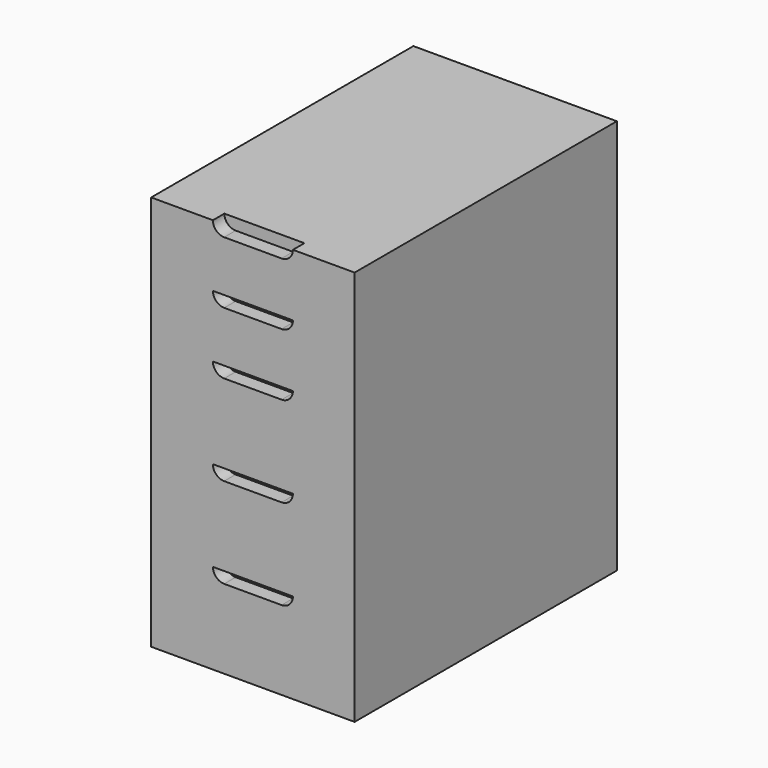
from build123d import *

# Parameters (mm, degrees)
F0_W     = 360
F0_H     = 580
F1_DEPTH = 700
F3_DEPTH = 25.4


with BuildPart() as f1:
    # F0 (on Top) → F1 (new body)
    with BuildSketch(Plane.XY):
        Rectangle(F0_W, F0_H)
    extrude(amount=F1_DEPTH)

    # F2 (on face) → F3 (cut)
    with BuildSketch(Plane.XZ.offset(290)):
        with BuildLine():
            ThreePointArc((50.8, 680), (64.942136, 685.857864), (70.8, 700))
            Line((70.8, 700), (50.8, 700))
            Line((50.8, 700), (-50.8, 700))
            Line((-50.8, 700), (-70.8, 700))
            ThreePointArc((-70.8, 700), (-64.942136, 685.857864), (-50.8, 680))
            Line((-50.8, 680), (50.8, 680))
        make_face()
        with BuildLine():
            ThreePointArc((50.8, 570), (64.942136, 575.857864), (70.8, 590))
            Line((70.8, 590), (50.8, 590))
            Line((50.8, 590), (-50.8, 590))
            Line((-50.8, 590), (-70.8, 590))
            ThreePointArc((-70.8, 590), (-64.942136, 575.857864), (-50.8, 570))
            Line((-50.8, 570), (50.8, 570))
        make_face()
        with BuildLine():
            ThreePointArc((50.8, 460), (64.942136, 465.857864), (70.8, 480))
            Line((70.8, 480), (50.8, 480))
            Line((50.8, 480), (-50.8, 480))
            Line((-50.8, 480), (-70.8, 480))
            ThreePointArc((-70.8, 480), (-64.942136, 465.857864), (-50.8, 460))
            Line((-50.8, 460), (50.8, 460))
        make_face()
        with BuildLine():
            ThreePointArc((50.8, 300), (64.942136, 305.857864), (70.8, 320))
            Line((70.8, 320), (50.8, 320))
            Line((50.8, 320), (-50.8, 320))
            Line((-50.8, 320), (-70.8, 320))
            ThreePointArc((-70.8, 320), (-64.942136, 305.857864), (-50.8, 300))
            Line((-50.8, 300), (50.8, 300))
        make_face()
        with BuildLine():
            Line((70.8, 160), (50.8, 160))
            Line((50.8, 160), (-50.8, 160))
            Line((-50.8, 160), (-70.8, 160))
            ThreePointArc((-70.8, 160), (-64.942136, 145.857864), (-50.8, 140))
            Line((-50.8, 140), (50.8, 140))
            ThreePointArc((50.8, 140), (64.942136, 145.857864), (70.8, 160))
        make_face()
    extrude(amount=-F3_DEPTH, mode=Mode.SUBTRACT)


solid = f1.part
